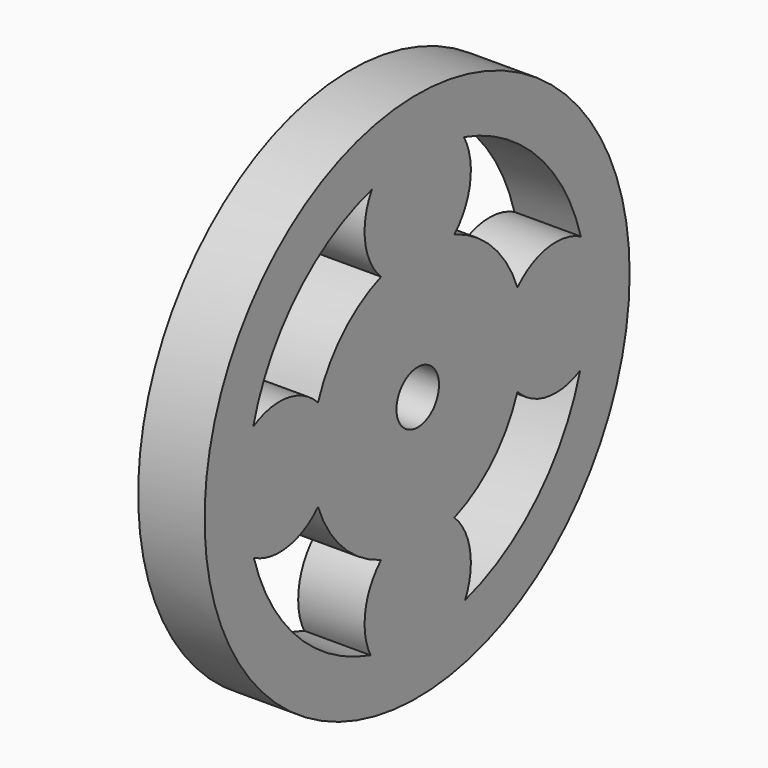
from build123d import *

# Parameters (mm, degrees)
BOX005_W                = 10
BOX005_H                = 45
BOX005_DEPTH            = 45
BOX004_W                = 10
BOX004_H                = 45
BOX004_DEPTH            = 45
CYLINDER012_R           = 5
CYLINDER012_DEPTH       = 10
CYLINDER012_PITCH_ANGLE = 90
SKETCH005_R             = 20
SKETCH005_R_2           = 16
PAD010_DEPTH            = 5
CYLINDER014_R           = 5
CYLINDER014_DEPTH       = 10
CYLINDER014_PITCH_ANGLE = 90
CYLINDER016_R           = 5
CYLINDER016_DEPTH       = 10
CYLINDER016_PITCH_ANGLE = 90
CYLINDER015_R           = 5
CYLINDER015_DEPTH       = 10
CYLINDER015_PITCH_ANGLE = 90
CYLINDER013_R           = 2
CYLINDER013_DEPTH       = 30
CYLINDER013_PITCH_ANGLE = 90
CYLINDER017_R           = 10
CYLINDER017_DEPTH       = 10
CYLINDER017_PITCH_ANGLE = 90


with BuildPart() as cube005:
    # Box005 → Box005 (new body)
    with BuildSketch(Plane(origin=(-10, -54, -57), x_dir=(1, 0, 0), z_dir=(0, 0, 1))):
        with Locations((5, 22.5)):
            Rectangle(BOX005_W, BOX005_H)
    extrude(amount=BOX005_DEPTH)


with BuildPart() as cube004:
    # Box004 → Box004 (new body)
    with BuildSketch(Plane(origin=(5, -54, -57), x_dir=(1, 0, 0), z_dir=(0, 0, 1))):
        with Locations((5, 22.5)):
            Rectangle(BOX004_W, BOX004_H)
    extrude(amount=BOX004_DEPTH)


with BuildPart() as cylinder:
    # Cylinder012 → Cylinder012 (new body)
    with BuildSketch(Plane.XY):
        Circle(CYLINDER012_R)
    extrude(amount=CYLINDER012_DEPTH)


with BuildPart() as cylinder_1:
    # Cylinder012 pitch: moved
    add(cylinder.part.rotate(Axis((0, 0, 0), (0, 1, 0)), CYLINDER012_PITCH_ANGLE))


with BuildPart() as cylinder_2:
    # Cylinder012 placement: moved
    add(cylinder_1.part.moved(Location((-2, -30.5, -21.5))))


with BuildPart() as fusion012:
    # Sketch005 → Pad010 (new body)
    with BuildSketch(Plane.YZ):
        with Locations((-30.558836, -34.409251)):
            Circle(SKETCH005_R)
        with Locations((-30.558836, -34.409251)):
            Circle(SKETCH005_R_2, mode=Mode.SUBTRACT)
    extrude(amount=PAD010_DEPTH)

    # Fusion012: union Cylinder
    add(cylinder_2.part)


with BuildPart() as fusion013:
    # Cylinder014 → Cylinder014 (new body)
    with BuildSketch(Plane.XY):
        Circle(CYLINDER014_R)
    extrude(amount=CYLINDER014_DEPTH)


with BuildPart() as fusion013_1:
    # Cylinder014 pitch: moved
    add(fusion013.part.rotate(Axis((0, 0, 0), (0, 1, 0)), CYLINDER014_PITCH_ANGLE))


with BuildPart() as fusion013_2:
    # Cylinder014 placement: moved
    add(fusion013_1.part.moved(Location((-2, -43.5, -34.5))))

    # Fusion013: union Fusion012
    add(fusion012.part)


with BuildPart() as fusion014:
    # Cylinder016 → Cylinder016 (new body)
    with BuildSketch(Plane.XY):
        Circle(CYLINDER016_R)
    extrude(amount=CYLINDER016_DEPTH)


with BuildPart() as fusion014_1:
    # Cylinder016 pitch: moved
    add(fusion014.part.rotate(Axis((0, 0, 0), (0, 1, 0)), CYLINDER016_PITCH_ANGLE))


with BuildPart() as fusion014_2:
    # Cylinder016 placement: moved
    add(fusion014_1.part.moved(Location((-2, -30.5, -47.5))))

    # Fusion014: union Fusion013
    add(fusion013_2.part)


with BuildPart() as fusion015:
    # Cylinder015 → Cylinder015 (new body)
    with BuildSketch(Plane.XY):
        Circle(CYLINDER015_R)
    extrude(amount=CYLINDER015_DEPTH)


with BuildPart() as fusion015_1:
    # Cylinder015 pitch: moved
    add(fusion015.part.rotate(Axis((0, 0, 0), (0, 1, 0)), CYLINDER015_PITCH_ANGLE))


with BuildPart() as fusion015_2:
    # Cylinder015 placement: moved
    add(fusion015_1.part.moved(Location((-3, -17.5, -34.5))))

    # Fusion015: union Fusion014
    add(fusion014_2.part)


with BuildPart() as cylinder011:
    # Cylinder013 → Cylinder013 (new body)
    with BuildSketch(Plane.XY):
        Circle(CYLINDER013_R)
    extrude(amount=CYLINDER013_DEPTH)


with BuildPart() as cylinder011_1:
    # Cylinder013 pitch: moved
    add(cylinder011.part.rotate(Axis((0, 0, 0), (0, 1, 0)), CYLINDER013_PITCH_ANGLE))


with BuildPart() as cylinder011_2:
    # Cylinder013 placement: moved
    add(cylinder011_1.part.moved(Location((-12, -30.5, -34.5))))


with BuildPart() as cut008:
    # Cylinder017 → Cylinder017 (new body)
    with BuildSketch(Plane.XY):
        Circle(CYLINDER017_R)
    extrude(amount=CYLINDER017_DEPTH)


with BuildPart() as cut008_1:
    # Cylinder017 pitch: moved
    add(cut008.part.rotate(Axis((0, 0, 0), (0, 1, 0)), CYLINDER017_PITCH_ANGLE))


with BuildPart() as cut008_2:
    # Cylinder017 placement: moved
    add(cut008_1.part.moved(Location((-2, -30.5, -34.5))))

    # Cut006: cut Cylinder011
    add(cylinder011_2.part, mode=Mode.SUBTRACT)

    # Fusion016: union Fusion015
    add(fusion015_2.part)

    # Cut007: cut Cube004
    add(cube004.part, mode=Mode.SUBTRACT)

    # Cut008: cut Cube005
    add(cube005.part, mode=Mode.SUBTRACT)


with BuildPart() as cut008_3:
    # Cut008 placement: moved
    add(cut008_2.part.moved(Location((52, -10.5, 45.5))))


solid = cut008_3.part
